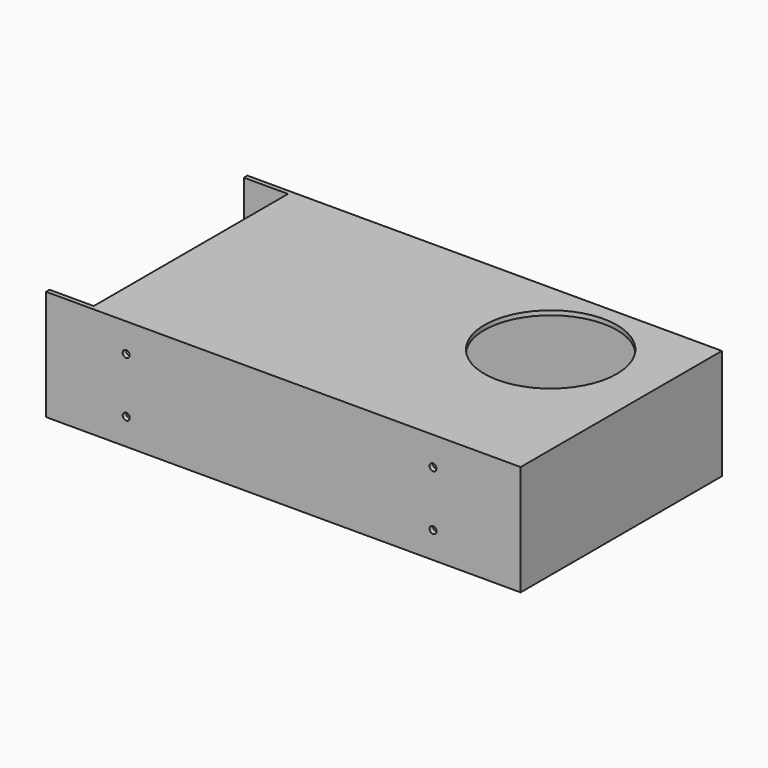
from build123d import *

# Parameters (mm, degrees)
F0_W           = 215
F0_H           = 114
F1_DEPTH       = 50
F2_T           = -2
F3_W           = 20
F3_H           = 110
F3_R           = 30
F4_DEPTH       = 2
F8_D           = 3.2
F8_DEPTH       = 2
F8_TIP         = 0.9613769904
F8_ON_F5_D     = 3.2
F8_ON_F5_DEPTH = 2
F8_ON_F5_TIP   = 0.9613769904
F8_ON_F6_D     = 3.2
F8_ON_F6_DEPTH = 2
F8_ON_F6_TIP   = 0.9613769904


with BuildPart() as f1:
    # F0 (on Top) → F1 (new body)
    with BuildSketch(Plane.XY):
        Rectangle(F0_W, F0_H)
    extrude(amount=F1_DEPTH)

    # F2
    f2_openings = [f1.faces().sort_by_distance(p)[0] for p in [
        (-107.5, 0, 25),
    ]]
    offset(amount=F2_T, openings=f2_openings)

    # F3 (on face) → F4 (cut, through all)
    with BuildSketch(Plane.XY.offset(50)):
        with Locations((-97.5, 0)):
            Rectangle(F3_W, F3_H)
        with Locations((59.5, 20)):
            Circle(F3_R)
    extrude(amount=-F4_DEPTH, mode=Mode.SUBTRACT)

    # F8
    with Locations(Plane(origin=(0, 0, 0), x_dir=(1, 0, 0), z_dir=(0, 0, -1))):
        with Locations((-74.5, 25), (-74.5, -25), (75.5, -25), (75.5, 25)):
            Hole(F8_D / 2, depth=F8_DEPTH)
            with Locations((0, 0, -(F8_DEPTH + F8_TIP / 2))):  # 118° drill point
                Cone(0, F8_D / 2, F8_TIP, mode=Mode.SUBTRACT)

    # F8 on F5
    with Locations(Plane.XZ.offset(57)):
        with Locations((-71.1912775098, 37), (-71.1912775098, 12), (67.8294761911, 37), (67.8294761911, 12)):
            Hole(F8_ON_F5_D / 2, depth=F8_ON_F5_DEPTH)
            with Locations((0, 0, -(F8_ON_F5_DEPTH + F8_ON_F5_TIP / 2))):  # 118° drill point
                Cone(0, F8_ON_F5_D / 2, F8_ON_F5_TIP, mode=Mode.SUBTRACT)

    # F8 on F6
    with Locations(Plane(origin=(0, 57, 0), x_dir=(-1, 0, 0), z_dir=(0, 1, 0))):
        with Locations((71.1912775098, 12), (-67.8294761911, 12)):
            Hole(F8_ON_F6_D / 2, depth=F8_ON_F6_DEPTH)
            with Locations((0, 0, -(F8_ON_F6_DEPTH + F8_ON_F6_TIP / 2))):  # 118° drill point
                Cone(0, F8_ON_F6_D / 2, F8_ON_F6_TIP, mode=Mode.SUBTRACT)


solid = f1.part
